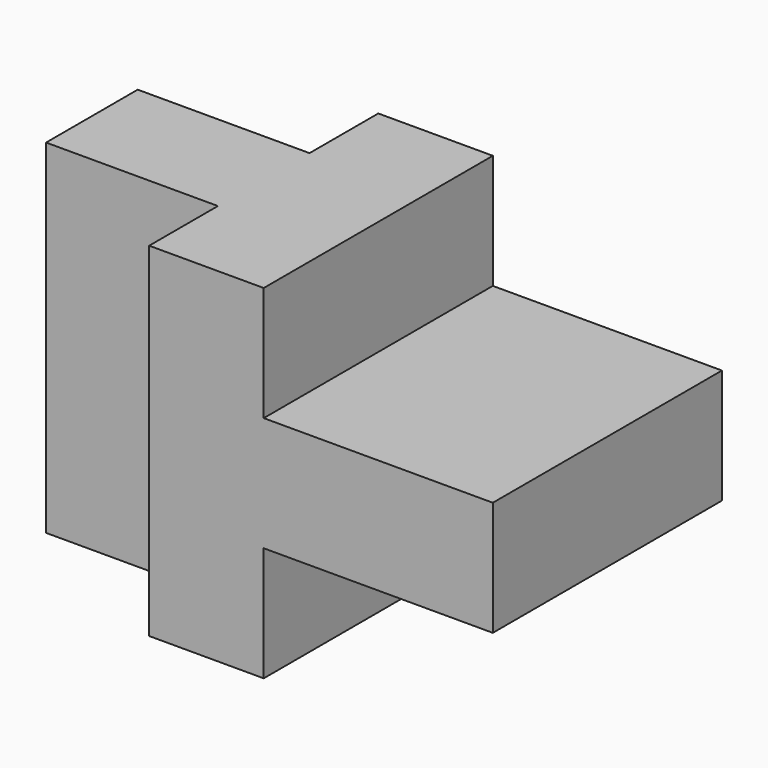
from build123d import *

# Parameters (mm, degrees)
F0_W     = 90
F0_H     = 60
F1_DEPTH = 50
F2_W     = 40
F2_H     = 20
F3_DEPTH = 50.001
F4_DEPTH = 50.001
F5_W     = 30
F5_H     = 15
F6_DEPTH = 60.001


with BuildPart() as f1:
    # F0 (on Front) → F1 (new body)
    with BuildSketch(Plane.XZ):
        Rectangle(F0_W, F0_H)
    extrude(amount=F1_DEPTH)

    # F2 (on face) → F3 (cut, through all)
    with BuildSketch(Plane.XZ.offset(50)):
        with Locations((25, 20)):
            Rectangle(F2_W, F2_H)
    extrude(amount=-F3_DEPTH, mode=Mode.SUBTRACT)

    # F2 (on face) → F4 (cut, through all)
    with BuildSketch(Plane.XZ.offset(50)):
        with Locations((25, -20)):
            Rectangle(F2_W, F2_H)
    extrude(amount=-F4_DEPTH, mode=Mode.SUBTRACT)

    # F5 (on face) → F6 (cut, through all)
    with BuildSketch(Plane.XY.offset(30)):
        with Locations((-30, -7.5)):
            Rectangle(F5_W, F5_H)
        with Locations((-30, -42.5)):
            Rectangle(F5_W, F5_H)
    extrude(amount=-F6_DEPTH, mode=Mode.SUBTRACT)


solid = f1.part
